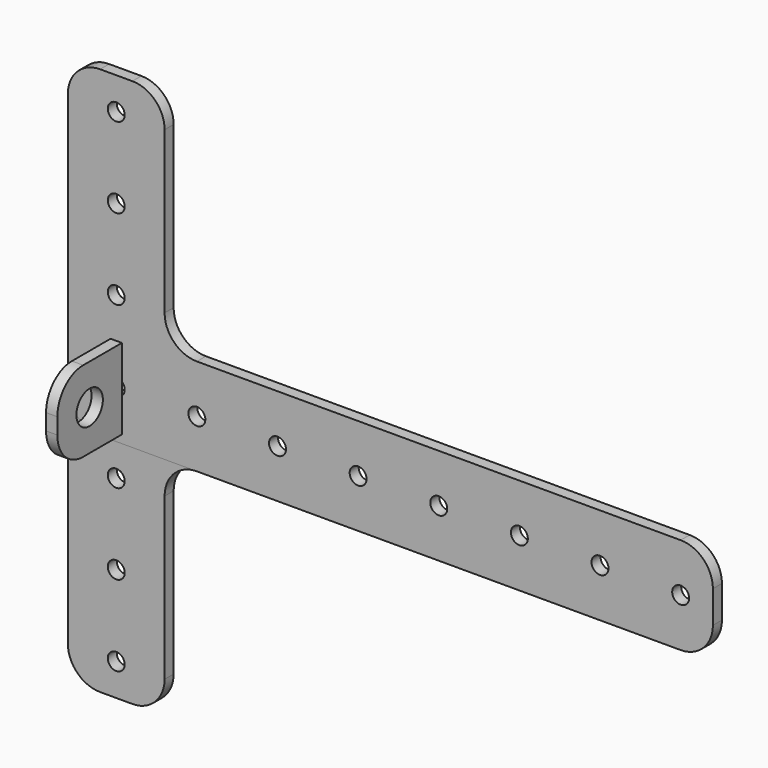
from build123d import *

# Parameters (mm, degrees)
F0_R     = 5.25
F1_DEPTH = 7
F2_W     = 50
F2_H     = 50
F2_R     = 10.25
F3_DEPTH = 3.5
F4_R     = 20


with BuildPart() as f1:
    # F0 (on Front) → F1 (new body)
    with BuildSketch(Plane.XZ):
        Polygon((370, -30), (370, 30), (-30, 30), (-30, -170), (30, -170), (30, -30), align=None)
        with Locations((0, -150)):
            Circle(F0_R, mode=Mode.SUBTRACT)
        with Locations((0, -100)):
            Circle(F0_R, mode=Mode.SUBTRACT)
        with Locations((0, -50)):
            Circle(F0_R, mode=Mode.SUBTRACT)
        Circle(F0_R, mode=Mode.SUBTRACT)
        with Locations((50, 0)):
            Circle(F0_R, mode=Mode.SUBTRACT)
        with Locations((100, 0)):
            Circle(F0_R, mode=Mode.SUBTRACT)
        with Locations((150, 0)):
            Circle(F0_R, mode=Mode.SUBTRACT)
        with Locations((200, 0)):
            Circle(F0_R, mode=Mode.SUBTRACT)
        with Locations((250, 0)):
            Circle(F0_R, mode=Mode.SUBTRACT)
        with Locations((300, 0)):
            Circle(F0_R, mode=Mode.SUBTRACT)
        with Locations((350, 0)):
            Circle(F0_R, mode=Mode.SUBTRACT)
    extrude(amount=-F1_DEPTH)

    # F2 (on Right) → F3 (join, symmetric)
    with BuildSketch(Plane.YZ):
        with Locations((-25, 0)):
            Rectangle(F2_W, F2_H)
        with Locations((-25, 0)):
            Circle(F2_R, mode=Mode.SUBTRACT)
    extrude(amount=F3_DEPTH, both=True)

    # F4
    f4_edges = [f1.edges().sort_by_distance(p)[0] for p in [
        (0, -50, 25),
        (0, -50, -25),
        (370, 3.5, 30),
        (370, 3.5, -30),
        (30, 3.5, -170),
        (-30, 3.5, -170),
        (-30, 3.5, 30),
        (30, 3.5, -30),
    ]]
    fillet(f4_edges, radius=F4_R)


with BuildPart() as f5_1:
    # F5: instance of F1
    add(f1.part.mirror(Plane.XY))


solid = Compound([f1.part, f5_1.part])
